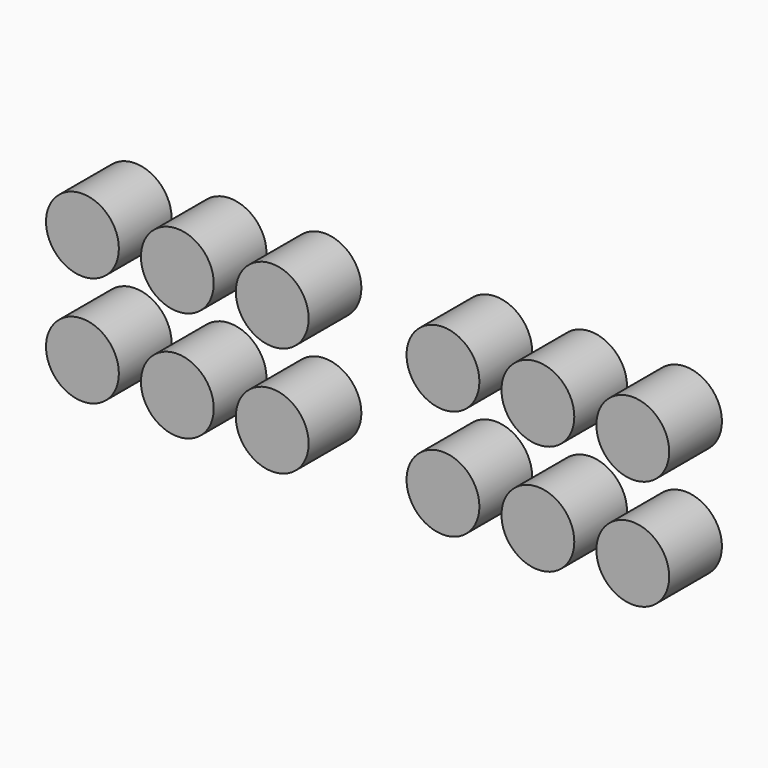
from build123d import *

# Parameters (mm, degrees)
F0_R     = 14.036443
F1_DEPTH = 25.4


with BuildPart() as f1:
    # F0 (on Front) → F1 (new body)
    with BuildSketch(Plane.XZ):
        with Locations((-106.053092, -5.510537)):
            Circle(F0_R)
        with Locations((-106.053092, 36.907463)):
            Circle(F0_R)
        with Locations((-69.477092, -5.510537)):
            Circle(F0_R)
        with Locations((-69.477092, 36.907463)):
            Circle(F0_R)
        with Locations((-32.901092, -5.510537)):
            Circle(F0_R)
        with Locations((-32.901092, 36.907463)):
            Circle(F0_R)
        with Locations((69.477092, 36.907463)):
            Circle(F0_R)
        with Locations((69.477092, -5.510537)):
            Circle(F0_R)
        with Locations((106.053092, 36.907463)):
            Circle(F0_R)
        with Locations((106.053092, -5.510537)):
            Circle(F0_R)
        with Locations((32.901092, 36.907463)):
            Circle(F0_R)
        with Locations((32.901092, -5.510537)):
            Circle(F0_R)
    extrude(amount=F1_DEPTH)


solid = f1.part
